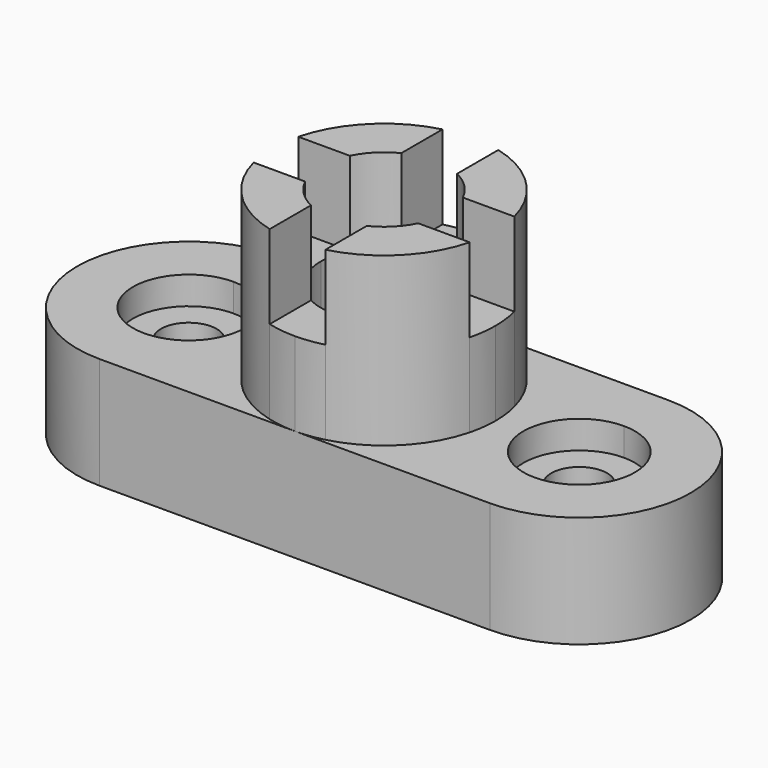
from build123d import *

# Parameters (mm, degrees)
F0_R     = 6.35
F1_DEPTH = 19.05
F2_DEPTH = 25.4
F3_DEPTH = 19.05
F4_DEPTH = 25.4
F6_DEPTH = 38.1
F7_W     = 12.7
F7_H     = 19.05
F7_H_2   = 12.7
F7_W_2   = 19.05
F7_W_3   = 20.2927024484
F8_DEPTH = 19.05


with BuildPart() as f1:
    # F0 (on Top) → F1 (new body)
    with BuildSketch(Plane.XY):
        with BuildLine():
            ThreePointArc((0, 38.1), (-12.7, 25.4), (0, 12.7))
            ThreePointArc((0, 12.7), (8.9802561211, 16.4197438789), (12.7, 25.4))
            ThreePointArc((12.7, 25.4), (8.9802561211, 34.3802561211), (0, 38.1))
        make_face()
        with Locations((0, 25.4)):
            Circle(F0_R, mode=Mode.SUBTRACT)
    extrude(amount=F1_DEPTH)

    # F0 (on Top) → F2 (join)
    with BuildSketch(Plane.XY):
        with BuildLine():
            Line((0, 12.7), (0, 0))
            Line((0, 0), (44.45, 0))
            Line((44.45, 0), (88.9, 0))
            Line((88.9, 0), (88.9, 12.7))
            ThreePointArc((88.9, 12.7), (76.2, 25.4), (88.9, 38.1))
            Line((88.9, 38.1), (88.9, 50.8))
            Line((88.9, 50.8), (44.45, 50.8))
            Line((44.45, 50.8), (0, 50.8))
            Line((0, 50.8), (0, 38.1))
            ThreePointArc((0, 38.1), (8.9802561211, 34.3802561211), (12.7, 25.4))
            ThreePointArc((12.7, 25.4), (8.9802561211, 16.4197438789), (0, 12.7))
        make_face()
        with BuildLine():
            ThreePointArc((0, 50.8), (-25.4, 25.4), (0, 0))
            Line((0, 0), (0, 12.7))
            ThreePointArc((0, 12.7), (-12.7, 25.4), (0, 38.1))
            Line((0, 38.1), (0, 50.8))
        make_face()
    extrude(amount=F2_DEPTH)

    # F0 (on Top) → F3 (join)
    with BuildSketch(Plane.XY):
        with BuildLine():
            ThreePointArc((88.9, 38.1), (76.2, 25.4), (88.9, 12.7))
            ThreePointArc((88.9, 12.7), (97.8802561211, 16.4197438789), (101.6, 25.4))
            ThreePointArc((101.6, 25.4), (97.8802561211, 34.3802561211), (88.9, 38.1))
        make_face()
        with Locations((88.9, 25.4)):
            Circle(F0_R, mode=Mode.SUBTRACT)
    extrude(amount=F3_DEPTH)

    # F0 (on Top) → F4 (join)
    with BuildSketch(Plane.XY):
        with BuildLine():
            Line((88.9, 12.7), (88.9, 0))
            ThreePointArc((88.9, 0), (114.3, 25.4), (88.9, 50.8))
            Line((88.9, 50.8), (88.9, 38.1))
            ThreePointArc((88.9, 38.1), (97.8802561211, 34.3802561211), (101.6, 25.4))
            ThreePointArc((101.6, 25.4), (97.8802561211, 16.4197438789), (88.9, 12.7))
        make_face()
    extrude(amount=F4_DEPTH)

    # F5 (on face) → F6 (join)
    with BuildSketch(Plane.XY.offset(25.4)):
        with BuildLine():
            Line((38.1, 38.2696814646), (38.1, 49.9934442484))
            ThreePointArc((38.1, 49.9934442484), (26.4894877579, 43.3605122421), (19.8565557516, 31.75))
            Line((19.8565557516, 31.75), (31.5803185354, 31.75))
            ThreePointArc((31.5803185354, 31.75), (34.3023105832, 35.5476894168), (38.1, 38.2696814646))
        make_face()
        with BuildLine():
            Line((44.45, 39.751), (44.45, 50.8))
            ThreePointArc((44.45, 50.8), (41.2494909709, 50.5975542852), (38.1, 49.9934442484))
            Line((38.1, 49.9934442484), (38.1, 38.2696814646))
            ThreePointArc((38.1, 38.2696814646), (41.189754434, 39.3757647322), (44.45, 39.751))
        make_face()
        with BuildLine():
            Line((50.8, 38.2696814646), (50.8, 49.9934442484))
            ThreePointArc((50.8, 49.9934442484), (47.6505090291, 50.5975542852), (44.45, 50.8))
            Line((44.45, 50.8), (44.45, 39.751))
            ThreePointArc((44.45, 39.751), (47.710245566, 39.3757647322), (50.8, 38.2696814646))
        make_face()
        with BuildLine():
            Line((57.3196814646, 31.75), (69.0434442484, 31.75))
            ThreePointArc((69.0434442484, 31.75), (62.4105122421, 43.3605122421), (50.8, 49.9934442484))
            Line((50.8, 49.9934442484), (50.8, 38.2696814646))
            ThreePointArc((50.8, 38.2696814646), (54.5976894168, 35.5476894168), (57.3196814646, 31.75))
        make_face()
        with BuildLine():
            Line((58.801, 25.4), (69.85, 25.4))
            ThreePointArc((69.85, 25.4), (69.6475542852, 28.6005090291), (69.0434442484, 31.75))
            Line((69.0434442484, 31.75), (57.3196814646, 31.75))
            ThreePointArc((57.3196814646, 31.75), (58.4257647322, 28.660245566), (58.801, 25.4))
        make_face()
        with BuildLine():
            ThreePointArc((69.0434442484, 19.05), (69.6475542852, 22.1994909709), (69.85, 25.4))
            Line((69.85, 25.4), (58.801, 25.4))
            ThreePointArc((58.801, 25.4), (58.4257647322, 22.139754434), (57.3196814646, 19.05))
            Line((57.3196814646, 19.05), (69.0434442484, 19.05))
        make_face()
        with BuildLine():
            ThreePointArc((50.8, 0.8065557516), (62.4105122421, 7.4394877579), (69.0434442484, 19.05))
            Line((69.0434442484, 19.05), (57.3196814646, 19.05))
            ThreePointArc((57.3196814646, 19.05), (54.5976894168, 15.2523105832), (50.8, 12.5303185354))
            Line((50.8, 12.5303185354), (50.8, 0.8065557516))
        make_face()
        with BuildLine():
            ThreePointArc((44.45, 0), (47.6505090291, 0.2024457148), (50.8, 0.8065557516))
            Line((50.8, 0.8065557516), (50.8, 12.5303185354))
            ThreePointArc((50.8, 12.5303185354), (47.710245566, 11.4242352678), (44.45, 11.049))
            Line((44.45, 11.049), (44.45, 0))
        make_face()
        with BuildLine():
            ThreePointArc((38.1, 0.8065557516), (41.2494909709, 0.2024457148), (44.45, 0))
            Line((44.45, 0), (44.45, 11.049))
            ThreePointArc((44.45, 11.049), (41.189754434, 11.4242352678), (38.1, 12.5303185354))
            Line((38.1, 12.5303185354), (38.1, 0.8065557516))
        make_face()
        with BuildLine():
            ThreePointArc((19.8565557516, 19.05), (26.4894877579, 7.4394877579), (38.1, 0.8065557516))
            Line((38.1, 0.8065557516), (38.1, 12.5303185354))
            ThreePointArc((38.1, 12.5303185354), (34.3023105832, 15.2523105832), (31.5803185354, 19.05))
            Line((31.5803185354, 19.05), (19.8565557516, 19.05))
        make_face()
        with BuildLine():
            ThreePointArc((19.05, 25.4), (19.2524457148, 22.1994909709), (19.8565557516, 19.05))
            Line((19.8565557516, 19.05), (31.5803185354, 19.05))
            ThreePointArc((31.5803185354, 19.05), (30.4742352678, 22.139754434), (30.099, 25.4))
            Line((30.099, 25.4), (19.05, 25.4))
        make_face()
        with BuildLine():
            Line((31.5803185354, 31.75), (19.8565557516, 31.75))
            ThreePointArc((19.8565557516, 31.75), (19.2524457148, 28.6005090291), (19.05, 25.4))
            Line((19.05, 25.4), (30.099, 25.4))
            ThreePointArc((30.099, 25.4), (30.4742352678, 28.660245566), (31.5803185354, 31.75))
        make_face()
    extrude(amount=F6_DEPTH)

    # F7 (on face) → F8 (cut)
    with BuildSketch(Plane.XY.offset(63.5)):
        with Locations((44.45, 41.275)):
            Rectangle(F7_W, F7_H)
        with Locations((44.45, 25.4)):
            Rectangle(F7_W, F7_H_2)
        with Locations((28.575, 25.4)):
            Rectangle(F7_W_2, F7_H_2)
        with Locations((60.9463512242, 25.4)):
            Rectangle(F7_W_3, F7_H_2)
        with Locations((44.45, 9.525)):
            Rectangle(F7_W, F7_H)
    extrude(amount=-F8_DEPTH, mode=Mode.SUBTRACT)


solid = f1.part
